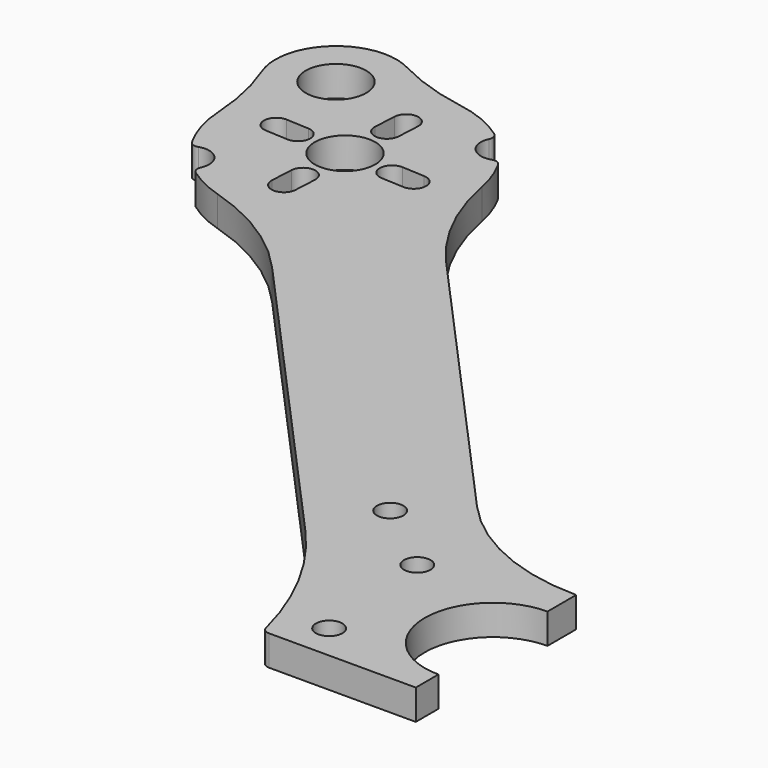
from build123d import *

# Parameters (mm, degrees)
F0_R     = 1.75
F0_R_2   = 4
F1_DEPTH = 4
F3_DEPTH = 25


with BuildPart() as f1:
    # F0 (on Top) → F1 (new body)
    with BuildSketch(Plane.XY):
        with BuildLine():
            ThreePointArc((-84.884826, 83.849637), (-76.947858, 80.232411), (-70.282498, 74.606333))
            Line((-70.282498, 74.606333), (-30.811058, 30.768857))
            ThreePointArc((-30.811058, 30.768857), (-24.414173, 21.647405), (-20.398732, 11.255232))
            ThreePointArc((-20.398732, 11.255232), (-20.043655, 10.711087), (-19.42915, 10.5))
            Line((-19.42915, 10.5), (0, 10.5))
            Line((0, 10.5), (0, 14.25))
            ThreePointArc((0, 14.25), (-9, 23.25), (0, 32.25))
            Line((0, 32.25), (0, 37))
            ThreePointArc((0, 37), (-11.145451, 39.369039), (-20.363752, 46.066526))
            Line((-20.363752, 46.066526), (-56.905891, 86.650683))
            ThreePointArc((-56.905891, 86.650683), (-61.804429, 93.867615), (-64.572201, 102.139207))
            ThreePointArc((-64.572201, 102.139207), (-65.272015, 104.680987), (-66.37972, 107.073344))
            ThreePointArc((-66.37972, 107.073344), (-66.898074, 107.516074), (-67.579721, 107.523738))
            ThreePointArc((-67.579721, 107.523738), (-70.263218, 108.210642), (-70.665857, 110.951239))
            ThreePointArc((-70.665857, 110.951239), (-70.602227, 111.629953), (-70.98835, 112.191746))
            ThreePointArc((-70.98835, 112.191746), (-74.187117, 113.965399), (-77.705103, 114.966266))
            ThreePointArc((-77.705103, 114.966266), (-82.632813, 116.182697), (-87.306203, 118.162965))
            ThreePointArc((-87.306203, 118.162965), (-96.354807, 117.012855), (-98.444454, 108.134039))
            ThreePointArc((-98.444454, 108.134039), (-96.963536, 103.279256), (-96.268855, 98.251389))
            ThreePointArc((-96.268855, 98.251389), (-95.641201, 94.648055), (-94.211625, 91.281414))
            ThreePointArc((-94.211625, 91.281414), (-93.693271, 90.838684), (-93.011625, 90.83102))
            ThreePointArc((-93.011625, 90.83102), (-90.328128, 90.144116), (-89.925489, 87.403519))
            ThreePointArc((-89.925489, 87.403519), (-89.989118, 86.724805), (-89.602996, 86.163013))
            ThreePointArc((-89.602996, 86.163013), (-87.339531, 84.811306), (-84.884826, 83.849637))
        make_face()
        with Locations((-15.25, 15.25)):
            Circle(F0_R, mode=Mode.SUBTRACT)
        with Locations((-17, 32)):
            Circle(F0_R, mode=Mode.SUBTRACT)
        with Locations((-26.765224, 39.725793)):
            Circle(F0_R, mode=Mode.SUBTRACT)
        with Locations((-80.295673, 99.177379)):
            Circle(F0_R_2, mode=Mode.SUBTRACT)
        with Locations((-91.001762, 111.067696)):
            Circle(F0_R_2, mode=Mode.SUBTRACT)
    extrude(amount=F1_DEPTH)

    # F2 (on face) → F3 (cut)
    with BuildSketch(Plane.XY.offset(4)):
        with BuildLine():
            ThreePointArc((-73.719535, 100.459968), (-75.427354, 98.922241), (-73.889627, 97.214422))
            Line((-73.889627, 97.214422), (-70.893738, 97.057414))
            ThreePointArc((-70.893738, 97.057414), (-69.185919, 98.595142), (-70.723646, 100.30296))
            Line((-70.723646, 100.30296), (-73.719535, 100.459968))
        make_face()
        with BuildLine():
            Line((-81.421254, 108.749406), (-81.578262, 105.753517))
            ThreePointArc((-81.578262, 105.753517), (-80.040535, 104.045698), (-78.332716, 105.583425))
            Line((-78.332716, 105.583425), (-78.175708, 108.579314))
            ThreePointArc((-78.175708, 108.579314), (-79.713435, 110.287133), (-81.421254, 108.749406))
        make_face()
        with BuildLine():
            Line((-89.867699, 98.051798), (-86.871811, 97.89479))
            ThreePointArc((-86.871811, 97.89479), (-85.163992, 99.432517), (-86.701719, 101.140336))
            Line((-86.701719, 101.140336), (-89.697607, 101.297344))
            ThreePointArc((-89.697607, 101.297344), (-91.405426, 99.759617), (-89.867699, 98.051798))
        make_face()
        with BuildLine():
            Line((-79.170091, 89.605353), (-79.013083, 92.601241))
            ThreePointArc((-79.013083, 92.601241), (-80.550811, 94.30906), (-82.258629, 92.771333))
            Line((-82.258629, 92.771333), (-82.415637, 89.775444))
            ThreePointArc((-82.415637, 89.775444), (-80.87791, 88.067625), (-79.170091, 89.605353))
        make_face()
    extrude(amount=-F3_DEPTH, mode=Mode.SUBTRACT)


solid = f1.part
